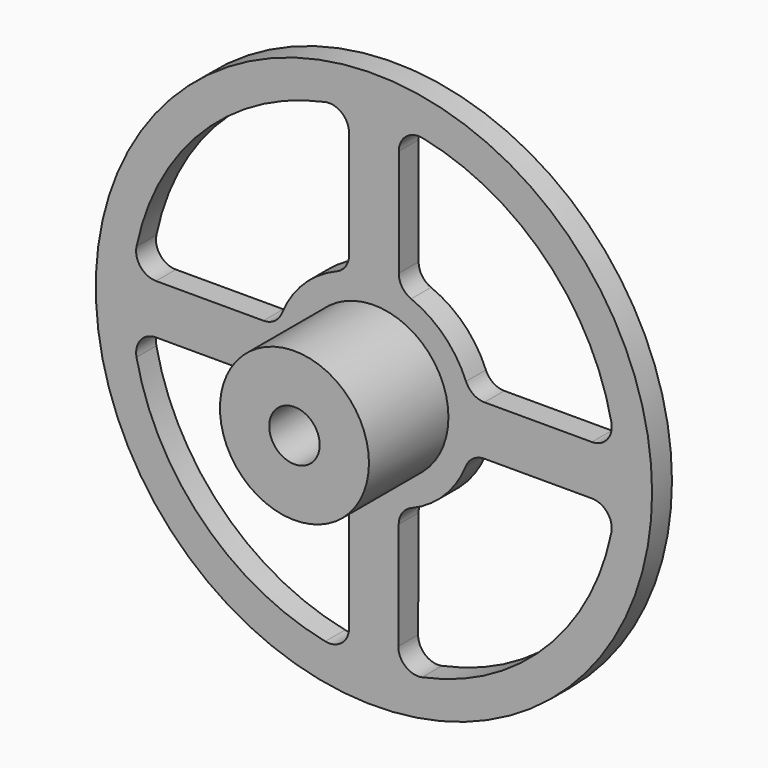
from build123d import *

# Parameters (mm, degrees)
F0_R     = 71.12
F0_R_2   = 6.35
F1_DEPTH = 6.35
F2_R     = 19.05
F2_R_2   = 6.452065
F3_DEPTH = 25.4


with BuildPart() as f1:
    # F0 (on Front) → F1 (new body)
    with BuildSketch(Plane.XZ):
        Circle(F0_R)
        with BuildLine():
            ThreePointArc((-9.525, -23.54643), (-7.217887, -25.41591), (-6.35, -28.255716))
            Line((-6.35, -28.255716), (-6.35, -55.721024))
            ThreePointArc((-6.35, -55.721024), (-8.219024, -59.657524), (-12.4508, -60.697405))
            ThreePointArc((-12.4508, -60.697405), (-43.813225, -43.813225), (-60.697405, -12.4508))
            ThreePointArc((-60.697405, -12.4508), (-59.657524, -8.219024), (-55.721024, -6.35))
            Line((-55.721024, -6.35), (-28.255716, -6.35))
            ThreePointArc((-28.255716, -6.35), (-25.41591, -7.217887), (-23.54643, -9.525))
            ThreePointArc((-23.54643, -9.525), (-17.960512, -17.960512), (-9.525, -23.54643))
        make_face(mode=Mode.SUBTRACT)
        Circle(F0_R_2, mode=Mode.SUBTRACT)
        with BuildLine():
            Line((6.220726, -55.726301), (6.334855, -28.240762))
            ThreePointArc((6.334855, -28.240762), (7.209368, -25.41218), (9.512343, -23.551546))
            ThreePointArc((9.512343, -23.551546), (17.955685, -17.965338), (23.54643, -9.525))
            ThreePointArc((23.54643, -9.525), (25.41591, -7.217887), (28.255716, -6.35))
            Line((28.255716, -6.35), (55.721024, -6.35))
            ThreePointArc((55.721024, -6.35), (59.657524, -8.219024), (60.697405, -12.4508))
            ThreePointArc((60.697405, -12.4508), (43.762366, -43.864025), (12.309933, -60.72613))
            ThreePointArc((12.309933, -60.72613), (8.076983, -59.673482), (6.220726, -55.726301))
        make_face(mode=Mode.SUBTRACT)
        with BuildLine():
            ThreePointArc((-60.697405, 12.4508), (-43.813225, 43.813225), (-12.4508, 60.697405))
            ThreePointArc((-12.4508, 60.697405), (-8.219024, 59.657524), (-6.35, 55.721024))
            Line((-6.35, 55.721024), (-6.35, 28.255716))
            ThreePointArc((-6.35, 28.255716), (-7.217887, 25.41591), (-9.525, 23.54643))
            ThreePointArc((-9.525, 23.54643), (-17.960512, 17.960512), (-23.54643, 9.525))
            ThreePointArc((-23.54643, 9.525), (-25.41591, 7.217887), (-28.255716, 6.35))
            Line((-28.255716, 6.35), (-55.721024, 6.35))
            ThreePointArc((-55.721024, 6.35), (-59.657524, 8.219024), (-60.697405, 12.4508))
        make_face(mode=Mode.SUBTRACT)
        with BuildLine():
            ThreePointArc((28.255716, 6.35), (25.41591, 7.217887), (23.54643, 9.525))
            ThreePointArc((23.54643, 9.525), (17.960512, 17.960512), (9.525, 23.54643))
            ThreePointArc((9.525, 23.54643), (7.217887, 25.41591), (6.35, 28.255716))
            Line((6.35, 28.255716), (6.35, 55.721024))
            ThreePointArc((6.35, 55.721024), (8.219024, 59.657524), (12.4508, 60.697405))
            ThreePointArc((12.4508, 60.697405), (43.813225, 43.813225), (60.697405, 12.4508))
            ThreePointArc((60.697405, 12.4508), (59.657524, 8.219024), (55.721024, 6.35))
            Line((55.721024, 6.35), (28.255716, 6.35))
        make_face(mode=Mode.SUBTRACT)
    extrude(amount=F1_DEPTH)

    # F2 (on face) → F3 (join)
    with BuildSketch(Plane.XZ.offset(6.35)):
        Circle(F2_R)
        Circle(F2_R_2, mode=Mode.SUBTRACT)
    extrude(amount=F3_DEPTH)


solid = f1.part
